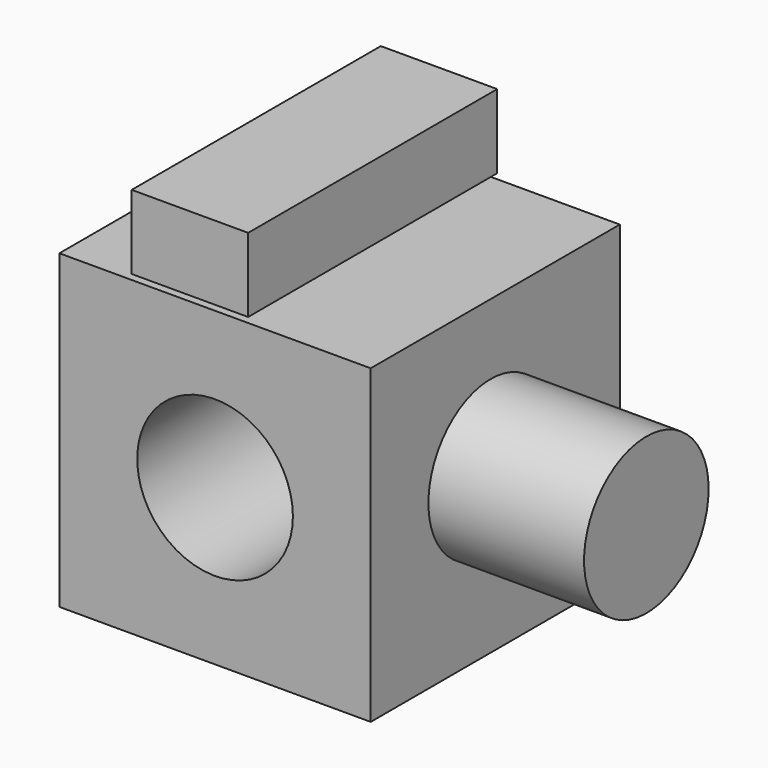
from build123d import *

# Parameters (mm, degrees)
F0_W     = 50.8
F0_H     = 50.8
F1_DEPTH = 50.8
F2_R     = 12.7
F3_DEPTH = 50.8
F4_W     = 18.995181
F4_H     = 12.087844
F5_DEPTH = 50.8
F6_R     = 12.7
F7_DEPTH = 25.4


with BuildPart() as f1:
    # F0 (on Front) → F1 (new body)
    with BuildSketch(Plane.XZ):
        with Locations((-25.4, 25.4)):
            Rectangle(F0_W, F0_H)
    extrude(amount=F1_DEPTH)

    # F2 (on face) → F3 (cut)
    with BuildSketch(Plane.XZ.offset(50.8)):
        with Locations((-25.4, 25.4)):
            Circle(F2_R)
    extrude(amount=-F3_DEPTH, mode=Mode.SUBTRACT)

    # F6 (on Right) → F7 (join)
    with BuildSketch(Plane.YZ):
        with Locations((-26.334226, 26.622033)):
            Circle(F6_R)
    extrude(amount=F7_DEPTH)


with BuildPart() as f5:
    # F4 (on Front) → F5 (new body)
    with BuildSketch(Plane.XZ):
        with Locations((-29.500089, 57.705056)):
            Rectangle(F4_W, F4_H)
    extrude(amount=F5_DEPTH)


solid = Compound([f1.part, f5.part])
